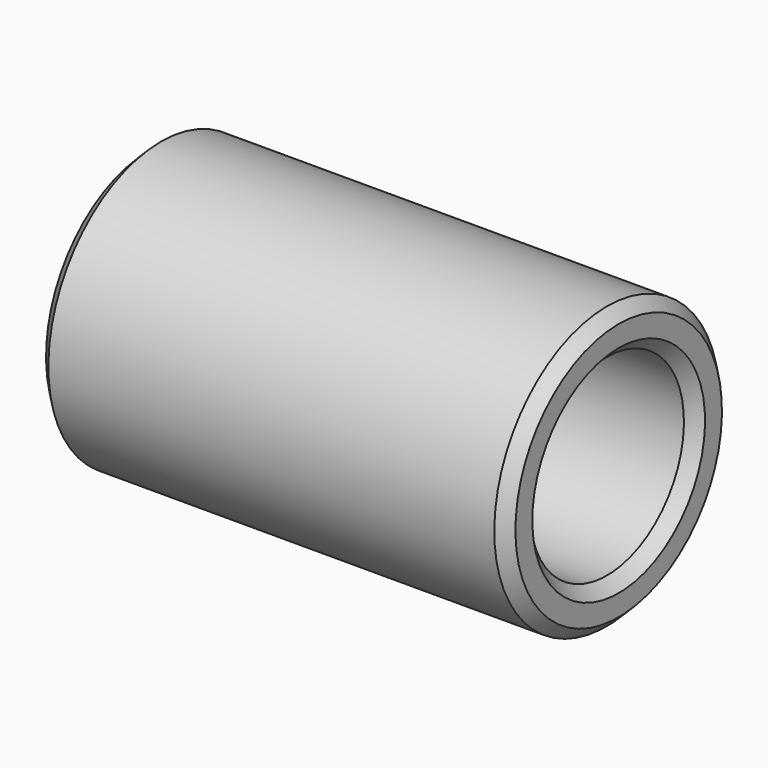
from build123d import *

# Parameters (mm, degrees)
F0_W    = 20
F0_H    = 1.9
F2_SIZE = 0.5


with BuildPart() as f1:
    # F0 (on Front) → F1 (revolve)
    with BuildSketch(Plane.XZ):
        with Locations((10, 5.05)):
            Rectangle(F0_W, F0_H)
    revolve(axis=Axis((17.162783, 0, 0), (1, 0, 0)))

    # F2
    f2_edges = [f1.edges().sort_by_distance(p)[0] for p in [
        (0, 0, -6),
        (20, 0, -6),
        (20, 0, -4.1),
        (0, 0, -4.1),
    ]]
    chamfer(f2_edges, length=F2_SIZE)


solid = f1.part
